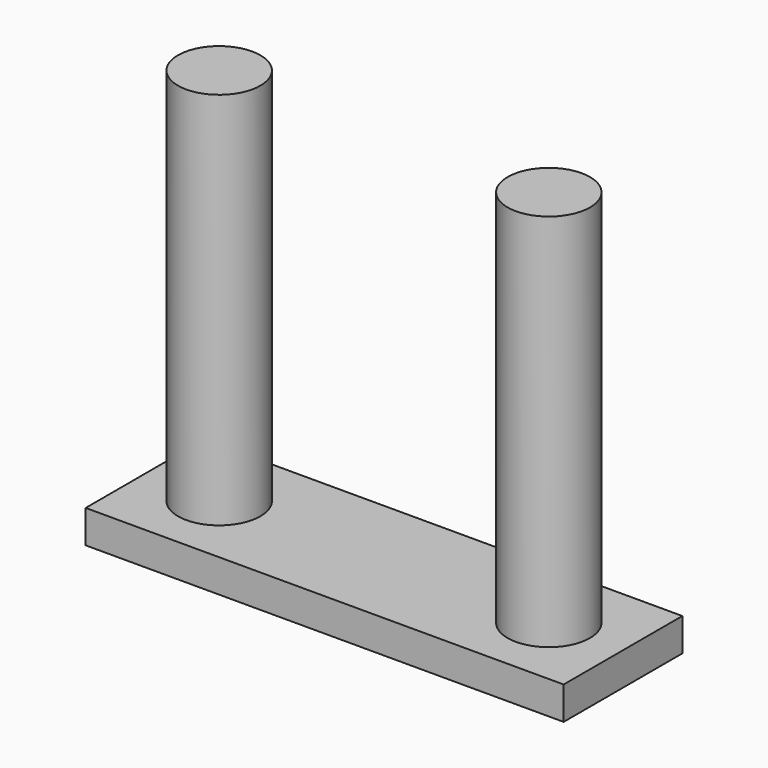
from build123d import *

# Parameters (mm, degrees)
F0_W     = 29
F0_H     = 9
F0_R     = 2.5
F1_DEPTH = 2
F2_DEPTH = 25


with BuildPart() as f1:
    # F0 (on Top) → F1 (new body)
    with BuildSketch(Plane.XY):
        Rectangle(F0_W, F0_H)
        with Locations((-10, 0)):
            Circle(F0_R, mode=Mode.SUBTRACT)
        with Locations((10, 0)):
            Circle(F0_R, mode=Mode.SUBTRACT)
    extrude(amount=F1_DEPTH)

    # F0 (on Top) → F2 (join)
    with BuildSketch(Plane.XY):
        with Locations((10, 0)):
            Circle(F0_R)
        with Locations((-10, 0)):
            Circle(F0_R)
    extrude(amount=F2_DEPTH)


solid = f1.part
